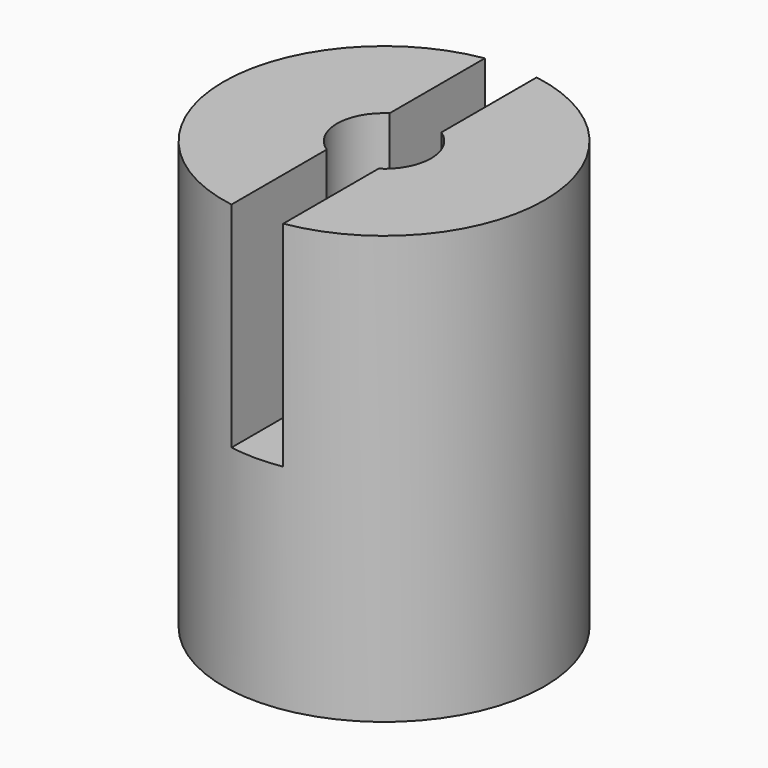
from build123d import *

# Parameters (mm, degrees)
F0_R     = 9.525
F0_R_2   = 2.794
F1_DEPTH = 25.4
F2_W     = 3.0734
F2_H     = 25.4
F3_DEPTH = 12.7
F4_DEPTH = 25.4


with BuildPart() as f1:
    # F0 (on Top) → F1 (new body)
    with BuildSketch(Plane.XY):
        Circle(F0_R)
        Circle(F0_R_2, mode=Mode.SUBTRACT)
        Circle(F0_R_2)
    extrude(amount=F1_DEPTH)

    # F2 (on Front) → F3 (cut, symmetric)
    with BuildSketch(Plane.XZ):
        with Locations((0, 25.4)):
            Rectangle(F2_W, F2_H)
    extrude(amount=F3_DEPTH, both=True, mode=Mode.SUBTRACT)

    # F0 (on Top) → F4 (cut, through all)
    with BuildSketch(Plane.XY):
        Circle(F0_R_2)
    extrude(amount=F4_DEPTH, mode=Mode.SUBTRACT)


solid = f1.part
